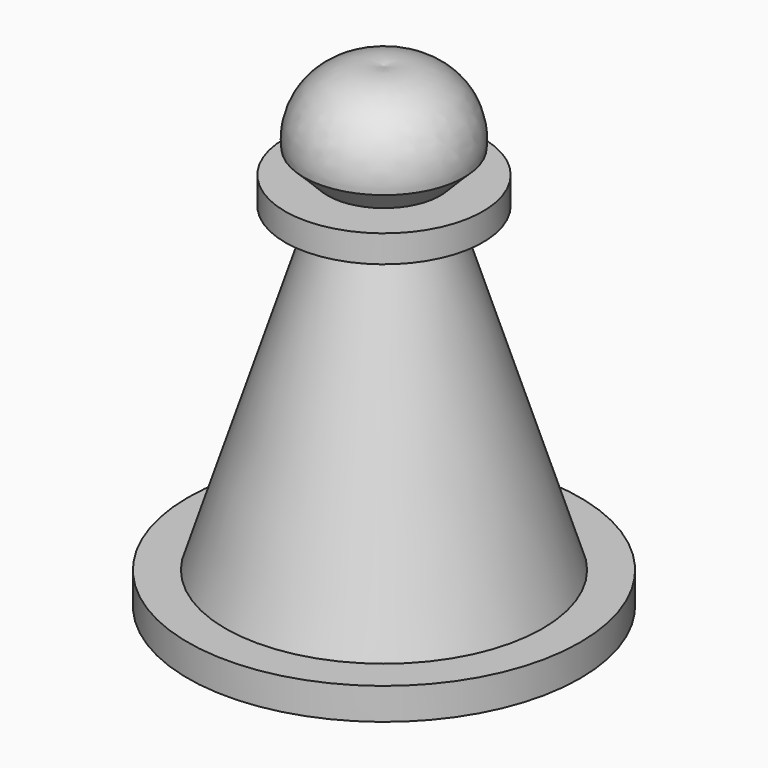
from build123d import *


with BuildPart() as f1:
    # F0 (on Front) → F1 (revolve)
    with BuildSketch(Plane.XZ):
        with BuildLine():
            Line((-26.957957, 0), (0, 0))
            Line((0, 0), (0, 65.287866))
            ThreePointArc((0, 65.287866), (-8.069751, 63.231719), (-11.021761, 55.444919))
            Line((-11.021761, 55.444919), (-7.740781, 52.16394))
            Line((-7.740781, 52.16394), (-13.599676, 52.16394))
            Line((-13.599676, 52.16394), (-13.599676, 48.414249))
            Line((-13.599676, 48.414249), (-7.740781, 48.414249))
            Line((-7.740781, 48.414249), (-21.802129, 4.355352))
            Line((-21.802129, 4.355352), (-26.957957, 4.355352))
            Line((-26.957957, 4.355352), (-26.957957, 0))
        make_face()
    revolve(axis=Axis((0, 0, 32.643933), (0, 0, 1)))


solid = f1.part
